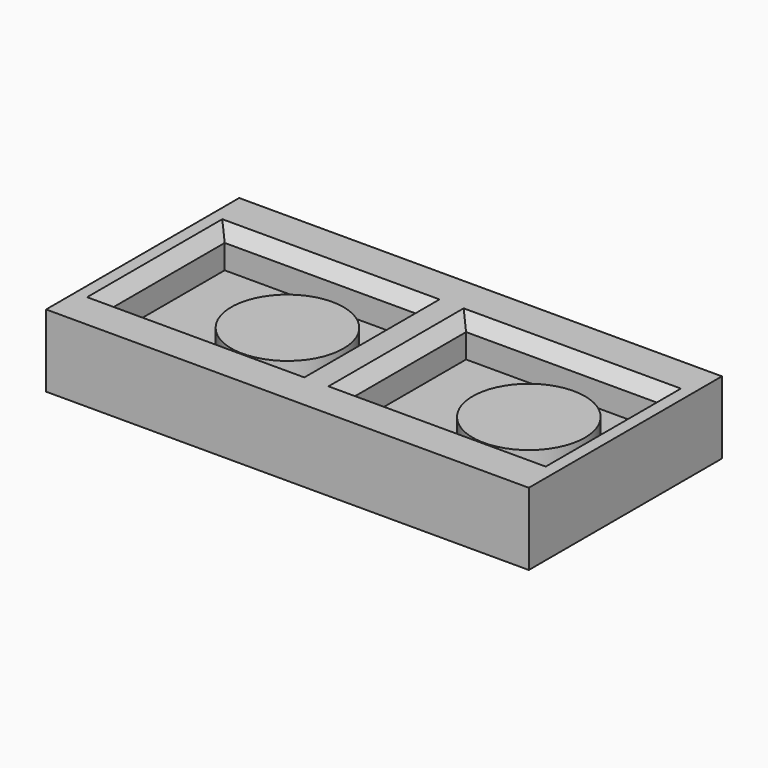
from build123d import *

# Parameters (mm, degrees)
F0_W     = 40
F0_H     = 20
F1_DEPTH = 6
F2_W     = 16
F2_H     = 12
F2_R     = 4.65
F3_DEPTH = 3
F4_DEPTH = 1.5
F5_SIZE  = 1


with BuildPart() as f1:
    # F0 (on Top) → F1 (new body)
    with BuildSketch(Plane.XY):
        with Locations((20, 10)):
            Rectangle(F0_W, F0_H)
    extrude(amount=F1_DEPTH)

    # F2 (on face) → F3 (cut)
    with BuildSketch(Plane.XY.offset(6)):
        with Locations((10, 10)):
            Rectangle(F2_W, F2_H)
        with Locations((12, 10)):
            Circle(F2_R, mode=Mode.SUBTRACT)
        with Locations((30, 10)):
            Rectangle(F2_W, F2_H)
        with Locations((32, 10)):
            Circle(F2_R, mode=Mode.SUBTRACT)
    extrude(amount=-F3_DEPTH, mode=Mode.SUBTRACT)

    # F4 (cut): faces of the model
    f4_faces = [f1.faces().sort_by_distance(p)[0] for p in [
        (12, 10, 6),
        (32, 10, 6),
    ]]
    extrude(f4_faces, amount=-F4_DEPTH, mode=Mode.SUBTRACT)

    # F5
    f5_edges = [f1.edges().sort_by_distance(p)[0] for p in [
        (10, 16, 6),
        (18, 10, 6),
        (10, 4, 6),
        (2, 10, 6),
        (22, 10, 6),
        (30, 16, 6),
        (38, 10, 6),
        (30, 4, 6),
    ]]
    chamfer(f5_edges, length=F5_SIZE)


solid = f1.part
